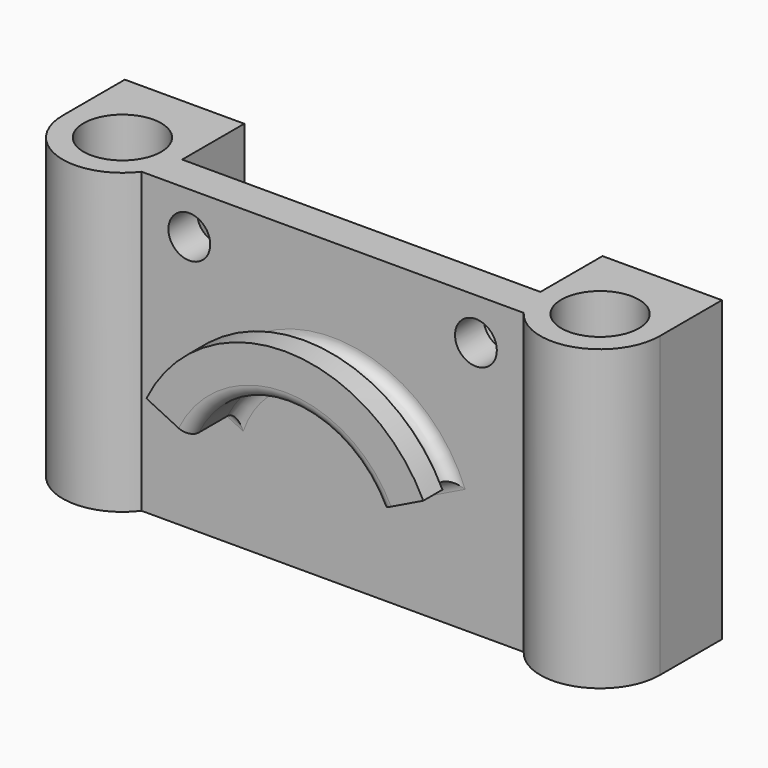
from build123d import *

# Parameters (mm, degrees)
F0_R          = 3.25
F1_DEPTH      = 25
F3_DEPTH      = 8
F4_START      = 6
F4_DEPTH      = 2
F6_DEPTH      = 25
F7_R          = 1.75
F8_DEPTH      = 25
F8_DEPTH_BACK = 25
F9_R          = 1


with BuildPart() as f1:
    # F0 (on Top) → F1 (new body)
    with BuildSketch(Plane.XY):
        with BuildLine():
            Line((-25, 6.5), (-25, 0))
            ThreePointArc((-25, 0), (-21.5811388301, -4.7434164903), (-16, -3))
            Line((-16, -3), (0, -3))
            Line((0, -3), (16, -3))
            ThreePointArc((16, -3), (21.5811388301, -4.7434164903), (25, 0))
            Line((25, 0), (25, 6.5))
            Line((25, 6.5), (-25, 6.5))
        make_face()
        with Locations((-20, 0)):
            Circle(F0_R, mode=Mode.SUBTRACT)
        with Locations((20, 0)):
            Circle(F0_R, mode=Mode.SUBTRACT)
    extrude(amount=F1_DEPTH)

    # F2 (on Front) → F3 (join)
    with BuildSketch(Plane.XZ):
        with BuildLine():
            ThreePointArc((-8, 10), (0, 15), (8, 10))
            Line((8, 10), (9.797752809, 10.8764044944))
            ThreePointArc((9.797752809, 10.8764044944), (0, 17), (-9.797752809, 10.8764044944))
            Line((-9.797752809, 10.8764044944), (-8, 10))
        make_face()
    extrude(amount=F3_DEPTH)

    # F2 (on Front) → F4 (join)
    with BuildSketch(Plane.XZ.offset(F4_START)):
        with BuildLine():
            ThreePointArc((-9.797752809, 10.8764044944), (0, 17), (9.797752809, 10.8764044944))
            Line((9.797752809, 10.8764044944), (11.595505618, 11.7528089888))
            ThreePointArc((11.595505618, 11.7528089888), (0, 19), (-11.595505618, 11.7528089888))
            Line((-11.595505618, 11.7528089888), (-9.797752809, 10.8764044944))
        make_face()
    extrude(amount=F4_DEPTH)

    # F5 (on Front) → F6 (cut)
    with BuildSketch(Plane.XZ):
        Polygon((-15, 18), (0, 18), (15, 18), (15, 26), (-15, 26), align=None)
    extrude(amount=-F6_DEPTH, mode=Mode.SUBTRACT)

    # F7 (on Front) → F8 (cut, two sides)
    with BuildSketch(Plane.XZ) as f8_sk:
        with Locations((-12, 21.5)):
            Circle(F7_R)
        with Locations((12, 21.5)):
            Circle(F7_R)
    extrude(amount=-F8_DEPTH, mode=Mode.SUBTRACT)
    extrude(f8_sk.sketch, amount=F8_DEPTH_BACK, mode=Mode.SUBTRACT)

    # F9
    f9_edges = [f1.edges().sort_by_distance(p)[0] for p in [
        (0, -3, 15),
        (-8.898876, -3, 10.438202),
        (8.898876, -3, 10.438202),
        (0, -3, 17),
        (0, -8, 15),
    ]]
    fillet(f9_edges, radius=F9_R)


solid = f1.part
